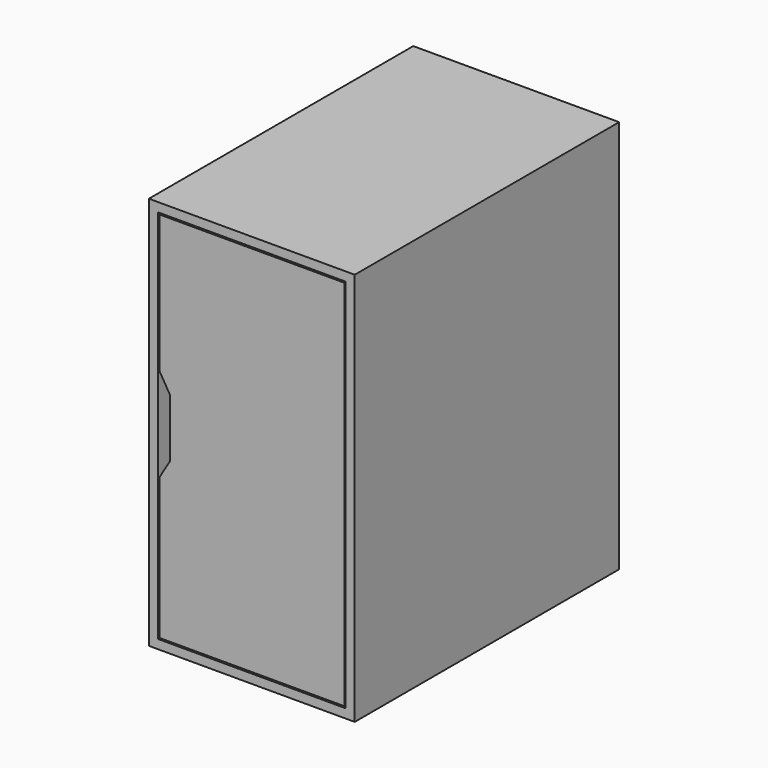
from build123d import *

# Parameters (mm, degrees)
F0_W     = 361.95
F0_H     = 692.15
F1_DEPTH = 581.025
F2_W     = 330.2
F2_H     = 660.4
F3_DEPTH = 565.15
F4_W     = 325.12
F4_H     = 655.32
F5_DEPTH = 565.15
F7_DEPTH = 565.15


with BuildPart() as f1:
    # F0 (on Front) → F1 (new body)
    with BuildSketch(Plane.XZ):
        with Locations((180.975, 346.075)):
            Rectangle(F0_W, F0_H)
    extrude(amount=F1_DEPTH)

    # F2 (on face) → F3 (cut)
    with BuildSketch(Plane.XZ.offset(581.025)):
        with Locations((180.975, 346.075)):
            Rectangle(F2_W, F2_H)
    extrude(amount=-F3_DEPTH, mode=Mode.SUBTRACT)

    # F4 (on face) → F5 (join)
    with BuildSketch(Plane.XZ.offset(581.025)):
        with Locations((180.975, 346.075)):
            Rectangle(F4_W, F4_H)
    extrude(amount=-F5_DEPTH)

    # F6 (on face) → F7 (cut)
    with BuildSketch(Plane.XZ.offset(581.025)):
        Polygon((37.465, 400.05), (18.415, 431.8), (18.415, 266.7), (37.465, 298.45), align=None)
    extrude(amount=-F7_DEPTH, mode=Mode.SUBTRACT)


solid = f1.part
